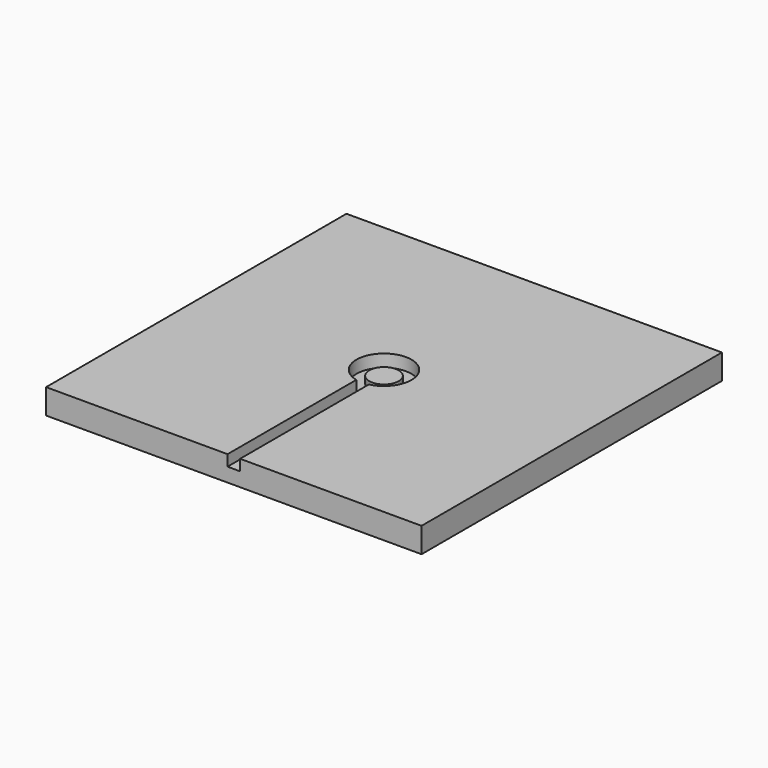
from build123d import *

# Parameters (mm, degrees)
F0_W     = 300
F0_H     = 300
F1_DEPTH = 20
F2_R     = 11.75
F3_DEPTH = 10
F4_DEPTH = 8.8
F6_DEPTH = 1.2
F7_DEPTH = 4.2


with BuildPart() as f1:
    # F0 (on Top) → F1 (new body)
    with BuildSketch(Plane.XY):
        Rectangle(F0_W, F0_H)
    extrude(amount=F1_DEPTH)

    # F2 (on face) → F3 (cut)
    with BuildSketch(Plane.XY.offset(20)):
        with BuildLine():
            Line((-5, -21.4242852856), (-5, -150))
            Line((-5, -150), (5, -150))
            Line((5, -150), (5, -21.4242852856))
            ThreePointArc((5, -21.4242852856), (0, 22), (-5, -21.4242852856))
        make_face()
        Circle(F2_R, mode=Mode.SUBTRACT)
    extrude(amount=-F3_DEPTH, mode=Mode.SUBTRACT)

    # F2 (on face) → F4 (cut)
    with BuildSketch(Plane.XY.offset(20)):
        with BuildLine():
            Line((-5, -21.4242852856), (-5, -150))
            Line((-5, -150), (5, -150))
            Line((5, -150), (5, -21.4242852856))
            ThreePointArc((5, -21.4242852856), (0, 22), (-5, -21.4242852856))
        make_face()
        Circle(F2_R, mode=Mode.SUBTRACT)
    extrude(amount=-F4_DEPTH, mode=Mode.SUBTRACT)

    # F5 (on face) → F6 (join)
    with BuildSketch(Plane.XY.offset(10)):
        with BuildLine():
            ThreePointArc((5, -21.4242852856), (0, -22), (-5, -21.4242852856))
            Line((-5, -21.4242852856), (-5, -150))
            Line((-5, -150), (5, -150))
            Line((5, -150), (5, -21.4242852856))
        make_face()
    extrude(amount=F6_DEPTH)

    # F2 (on face) → F7 (cut)
    with BuildSketch(Plane.XY.offset(20)):
        Circle(F2_R)
    extrude(amount=-F7_DEPTH, mode=Mode.SUBTRACT)


solid = f1.part
